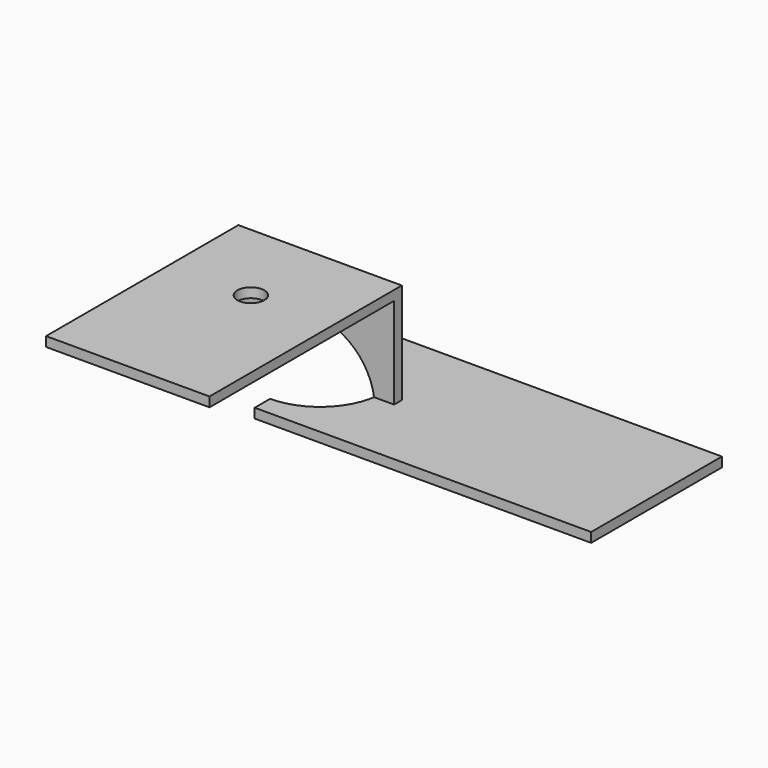
from build123d import *

# Parameters (mm, degrees)
F1_DEPTH = 5
F2_W     = 85
F2_H     = 125
F2_R     = 7
F3_DEPTH = 5
F5_DEPTH = 5


with BuildPart() as f1:
    # F0 (on Front) → F1 (new body)
    with BuildSketch(Plane.XZ):
        with BuildLine():
            ThreePointArc((-32.5, 0), (0, 32.5), (32.5, 0))
            Line((32.5, 0), (42.5, 0))
            Line((42.5, 0), (42.5, 57.5))
            Line((42.5, 57.5), (-42.5, 57.5))
            Line((-42.5, 57.5), (-42.5, 0))
            Line((-42.5, 0), (-32.5, 0))
        make_face()
    extrude(amount=F1_DEPTH)

    # F2 (on face) → F3 (join)
    with BuildSketch(Plane.XY.offset(57.5)):
        with Locations((0, -62.5)):
            Rectangle(F2_W, F2_H)
        with Locations((0, -45)):
            Circle(F2_R, mode=Mode.SUBTRACT)
    extrude(amount=-F3_DEPTH)


with BuildPart() as f5:
    # F4 (on Top) → F5 (new body)
    with BuildSketch(Plane.XY):
        with BuildLine():
            ThreePointArc((0, 32.5), (32.5, 0), (0, -32.5))
            Line((0, -32.5), (0, -42.5))
            Line((0, -42.5), (175, -42.5))
            Line((175, -42.5), (175, 42.5))
            Line((175, 42.5), (0, 42.5))
            Line((0, 42.5), (0, 32.5))
        make_face()
    extrude(amount=F5_DEPTH)


solid = Compound([f1.part, f5.part])
